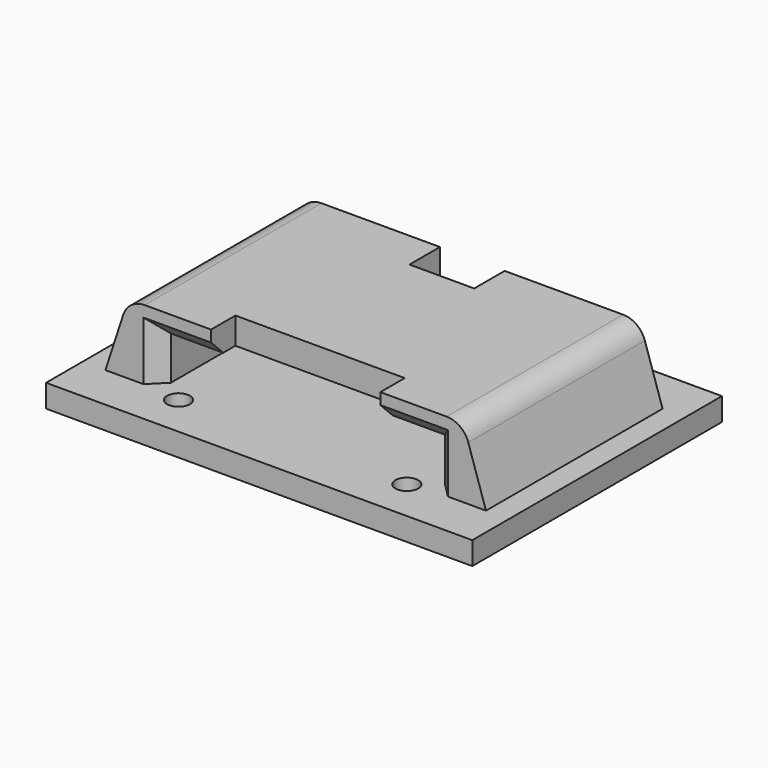
from build123d import *

# Parameters (mm, degrees)
F1_DEPTH  = 3.5
F2_W      = 29
F2_H      = 9.2
F3_DEPTH  = 4
F4_W      = 29
F4_H      = 9.2
F5_DEPTH  = 4
F6_SIZE   = 2
F7_W      = 4
F7_H      = 15
F8_DEPTH  = 3
F9_SIZE   = 2
F11_DEPTH = 29
F12_R     = 3
F13_W     = 56
F13_H     = 41
F14_DEPTH = 3
F15_R     = 1.5
F16_DEPTH = 3


with BuildPart() as f1:
    # F0 (on Top) → F1 (new body)
    with BuildSketch(Plane.XY):
        Polygon((-4.25, 12.1511180716), (-18, 12.1511180716), (-18, -16.8488819284), (-11.125, -16.8488819284), (-11.125, -12.8488819284), (11.125, -12.8488819284), (11.125, -16.8488819284), (18, -16.8488819284), (18, 12.1511180716), (4.25, 12.1511180716), (4.25, 7.1511180716), (-4.25, 7.1511180716), align=None)
    extrude(amount=F1_DEPTH)

    # F2 (on face) → F3 (join)
    with BuildSketch(Plane(origin=(-18, 0, 0), x_dir=(0, -1, 0), z_dir=(-1, 0, 0))):
        with Locations((2.3488819284, -1.1)):
            Rectangle(F2_W, F2_H)
    extrude(amount=F3_DEPTH)

    # F4 (on face) → F5 (join)
    with BuildSketch(Plane.YZ.offset(18)):
        with Locations((-2.3488819284, -1.1)):
            Rectangle(F4_W, F4_H)
    extrude(amount=F5_DEPTH)

    # F6
    f6_edges = [f1.edges().sort_by_distance(p)[0] for p in [
        (-14.5625, -16.848882, 0),
        (14.5625, -16.848882, 0),
    ]]
    chamfer(f6_edges, length=F6_SIZE)

    # F7 (on face) → F8 (join)
    with BuildSketch(Plane(origin=(0, 0, -5.7), x_dir=(1, 0, 0), z_dir=(0, 0, -1))):
        with Locations((20, 2.3488819284)):
            Rectangle(F7_W, F7_H)
        with Locations((-20, 2.3488819284)):
            Rectangle(F7_W, F7_H)
    extrude(amount=F8_DEPTH)

    # F9
    f9_edges = [f1.edges().sort_by_distance(p)[0] for p in [
        (18, -16.848882, -1.85),
        (-18, -16.848882, -1.85),
    ]]
    chamfer(f9_edges, length=F9_SIZE)

    # F10 (on face) → F11 (join, through all)
    with BuildSketch(Plane(origin=(0, 12.1511180716, 0), x_dir=(-1, 0, 0), z_dir=(0, 1, 0))):
        Polygon((25, -5.7), (22, 3.5), (22, -5.7), align=None)
        Polygon((-22, -5.7), (-22, 3.5), (-25, -5.7), align=None)
    extrude(amount=-F11_DEPTH)

    # F12
    f12_edges = [f1.edges().sort_by_distance(p)[0] for p in [
        (-22, -2.348882, 3.5),
        (22, -2.348882, 3.5),
    ]]
    fillet(f12_edges, radius=F12_R)

    # F13 (on face) → F14 (join, through all)
    with BuildSketch(Plane(origin=(0, 0, -5.7), x_dir=(1, 0, 0), z_dir=(0, 0, -1))):
        with Locations((0, 2.3488819284)):
            Rectangle(F13_W, F13_H)
    extrude(amount=F14_DEPTH)

    # F15 (on face) → F16 (cut, through all)
    with BuildSketch(Plane(origin=(0, 0, -8.7), x_dir=(1, 0, 0), z_dir=(0, 0, -1))):
        with Locations((-15, 17.3488819284)):
            Circle(F15_R)
        with Locations((15, 17.3488819284)):
            Circle(F15_R)
        with Locations((15, -12.6511180716)):
            Circle(F15_R)
        with Locations((-15, -12.6511180716)):
            Circle(F15_R)
    extrude(amount=-F16_DEPTH, mode=Mode.SUBTRACT)


solid = f1.part
